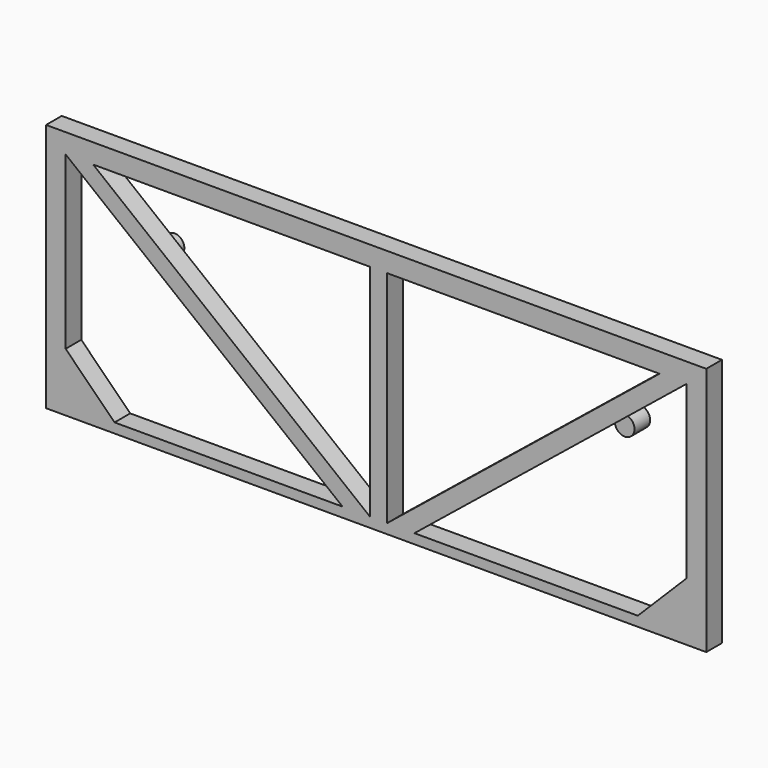
from build123d import *

# Parameters (mm, degrees)
F1_DEPTH = 25.4
F3_DEPTH = 25.4
F4_R     = 12.7
F5_DEPTH = 25.4


with BuildPart() as f1:
    # F0 (on Front) → F1 (new body)
    with BuildSketch(Plane.XZ):
        Polygon((403.225, 12.7), (428.625, 12.7), (428.625, 298.45), (428.625, 323.85), (-428.625, 323.85), (-428.625, 298.45), (-428.625, 12.7), (-403.225, 12.7), (-403.225, 298.45), (-43.6594735359, 12.7), (-7.9375, 12.7), (14.2875, 12.7), (49.6461265683, 12.7), (403.225, 298.45), align=None)
        Polygon((-7.9375, 298.45), (-7.9375, 12.7), (-367.5030264641, 298.45), align=None, mode=Mode.SUBTRACT)
        Polygon((367.8663734317, 298.45), (14.2875, 12.7), (14.2875, 298.45), align=None, mode=Mode.SUBTRACT)
        Polygon((428.625, 0), (428.625, 12.7), (403.225, 12.7), (49.6461265683, 12.7), (14.2875, 12.7), (-7.9375, 12.7), (-43.6594735359, 12.7), (-403.225, 12.7), (-428.625, 12.7), (-428.625, 0), align=None)
    extrude(amount=F1_DEPTH)

    # F2 (on face) → F3 (join)
    with BuildSketch(Plane.XZ.offset(25.4)):
        Polygon((-339.725, 12.7), (-403.225, 76.2), (-403.225, 12.7), align=None)
        Polygon((403.225, 76.2), (339.725, 12.7), (403.225, 12.7), align=None)
    extrude(amount=-F3_DEPTH)

    # F4 (on Front) → F5 (join)
    with BuildSketch(Plane.XZ):
        with Locations((-302.4, 207.65)):
            Circle(F4_R)
        with Locations((302.4, 207.65)):
            Circle(F4_R)
    extrude(amount=-F5_DEPTH)


solid = f1.part
